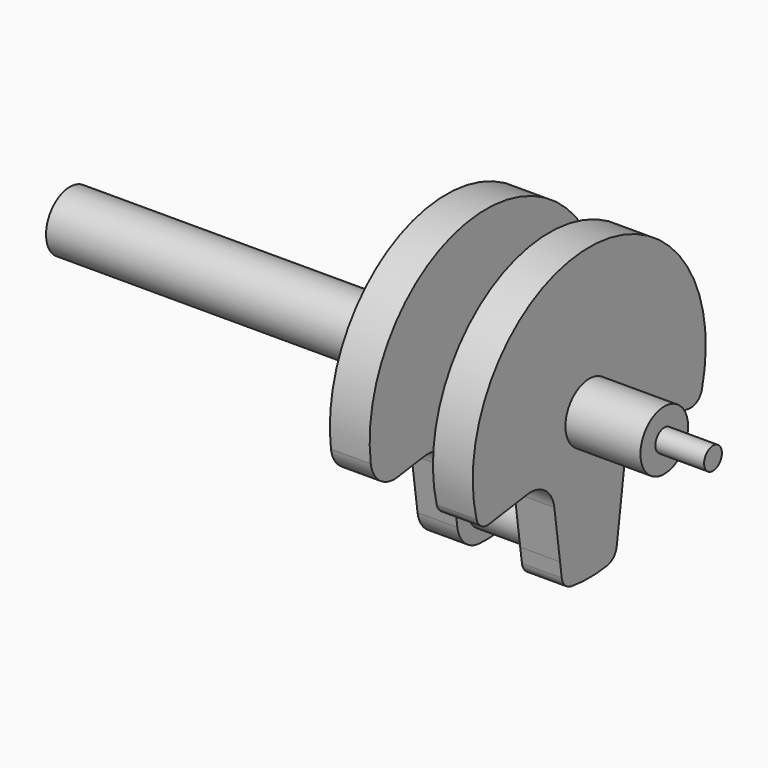
from build123d import *

# Parameters (mm, degrees)
F0_R      = 4.7752
F0_R_2    = 6.3627
F1_DEPTH  = 8.509
F2_DEPTH  = 80.4418
F3_R      = 4.7752
F4_DEPTH  = 30.5308
F5_R      = 4.7752
F5_R_2    = 6.3627
F6_DEPTH  = 8.509
F7_R      = 6.3627
F8_DEPTH  = 24.5364
F9_R      = 2.38125
F10_DEPTH = 10.414


with BuildPart() as f1:
    # F0 (on Right) → F1 (new body)
    with BuildSketch(Plane.YZ):
        with BuildLine():
            ThreePointArc((-7.700766, -25.608431), (-5.713574, -29.396277), (-1.774759, -31.064344))
            ThreePointArc((-1.774759, -31.064344), (1.50712, -31.078478), (4.772233, -30.746854))
            ThreePointArc((4.772233, -30.746854), (6.475424, -29.874653), (7.323086, -28.159117))
            Line((7.323086, -28.159117), (9.301448, -14.082338))
            ThreePointArc((9.301448, -14.082338), (11.768125, -9.894752), (16.473399, -8.677885))
            Line((16.473399, -8.677885), (23.647041, -9.686075))
            ThreePointArc((23.647041, -9.686075), (28.357354, -8.465408), (30.820737, -4.269122))
            ThreePointArc((30.820737, -4.269122), (0, 31.115), (-30.820737, -4.269122))
            ThreePointArc((-30.820737, -4.269122), (-28.357354, -8.465408), (-23.647041, -9.686075))
            Line((-23.647041, -9.686075), (-16.492232, -8.680532))
            ThreePointArc((-16.492232, -8.680532), (-11.786957, -9.897399), (-9.32028, -14.084985))
            Line((-9.32028, -14.084985), (-7.700766, -25.608431))
        make_face()
        with Locations((0, -23.8252)):
            Circle(F0_R, mode=Mode.SUBTRACT)
        Circle(F0_R_2, mode=Mode.SUBTRACT)
        Circle(F0_R_2)
    extrude(amount=F1_DEPTH)

    # F0 (on Right) → F2 (join)
    with BuildSketch(Plane.YZ):
        Circle(F0_R_2)
    extrude(amount=-F2_DEPTH)

    # F3 (on face) → F4 (join)
    with BuildSketch(Plane(origin=(0, 0, 0), x_dir=(0, -1, 0), z_dir=(-1, 0, 0))):
        with Locations((0, -23.8252)):
            Circle(F3_R)
    extrude(amount=-F4_DEPTH)

    # F5 (on face) → F6 (join)
    with BuildSketch(Plane.YZ.offset(30.5308)):
        with BuildLine():
            ThreePointArc((26.729671, -10.11931), (28.843815, -9.637583), (30.102707, -7.87212))
            ThreePointArc((30.102707, -7.87212), (0, 31.115), (-30.102707, -7.87212))
            ThreePointArc((-30.102707, -7.87212), (-28.843815, -9.637583), (-26.729671, -10.11931))
            Line((-26.729671, -10.11931), (-16.492232, -8.680532))
            ThreePointArc((-16.492232, -8.680532), (-11.786957, -9.897399), (-9.32028, -14.084985))
            Line((-9.32028, -14.084985), (-7.797371, -24.921049))
            Line((-7.797371, -24.921049), (-7.342719, -28.156062))
            ThreePointArc((-7.342719, -28.156062), (-6.495815, -29.87083), (-4.793998, -30.743468))
            ThreePointArc((-4.793998, -30.743468), (0, -31.115), (4.793998, -30.743468))
            ThreePointArc((4.793998, -30.743468), (6.495815, -29.87083), (7.342719, -28.156062))
            Line((7.342719, -28.156062), (7.797371, -24.921049))
            Line((7.797371, -24.921049), (9.32028, -14.084985))
            ThreePointArc((9.32028, -14.084985), (11.786957, -9.897399), (16.492232, -8.680532))
            Line((16.492232, -8.680532), (26.729671, -10.11931))
        make_face()
        with Locations((0, -23.8252)):
            Circle(F5_R, mode=Mode.SUBTRACT)
        Circle(F5_R_2, mode=Mode.SUBTRACT)
    extrude(amount=-F6_DEPTH)

    # F7 (on face) → F8 (join)
    with BuildSketch(Plane(origin=(22.0218, 0, 0), x_dir=(0, -1, 0), z_dir=(-1, 0, 0))):
        Circle(F7_R)
    extrude(amount=-F8_DEPTH)

    # F9 (on face) → F10 (join)
    with BuildSketch(Plane.YZ.offset(46.5582)):
        Circle(F9_R)
    extrude(amount=F10_DEPTH)


solid = f1.part
